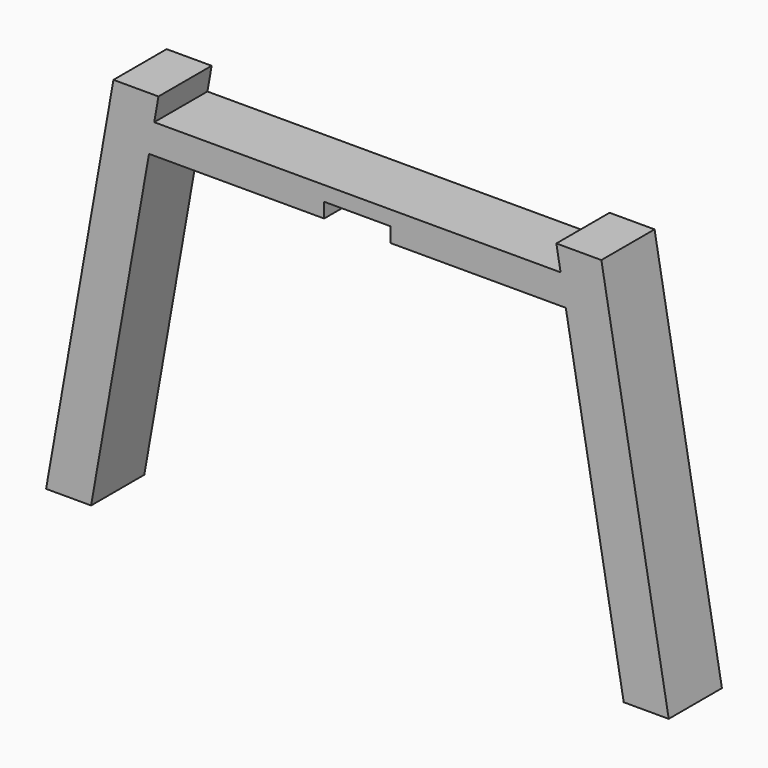
from build123d import *

# Parameters (mm, degrees)
F1_DEPTH = 18
F2_W     = 18
F2_H     = 4
F3_DEPTH = 20


with BuildPart() as f1:
    # F0 (on Front) → F1 (new body)
    with BuildSketch(Plane.XZ):
        Polygon((55, 96.89723), (0, 96.89723), (-55, 96.89723), (-53.852537, 103.404814), (-66.037657, 103.404814), (-84.270715, 0), (-72.085596, 0), (-56.410616, 88.89723), (0, 88.89723), (56.410616, 88.89723), (72.085596, 0), (84.270715, 0), (66.037657, 103.404814), (53.852537, 103.404814), align=None)
    extrude(amount=F1_DEPTH)

    # F2 (on face) → F3 (cut)
    with BuildSketch(Plane.XZ.offset(18)):
        with Locations((0, 90.89723)):
            Rectangle(F2_W, F2_H)
    extrude(amount=-F3_DEPTH, mode=Mode.SUBTRACT)


solid = f1.part
